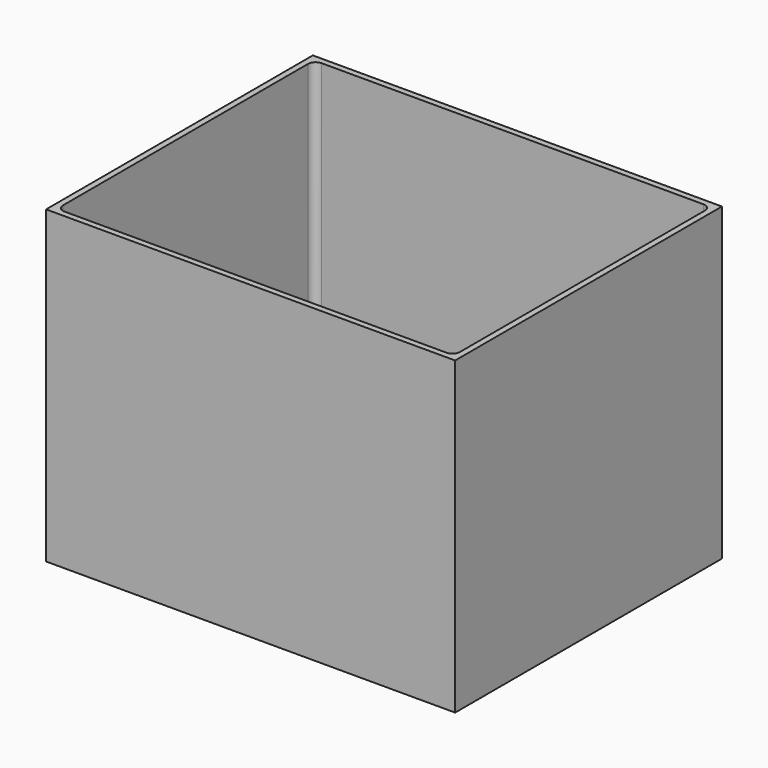
from build123d import *

# Parameters (mm, degrees)
F0_W     = 108.2
F0_H     = 88.2
F0_W_2   = 105
F0_H_2   = 85
F1_DEPTH = 80
F2_W     = 108.2
F2_H     = 88.2
F2_W_2   = 105
F2_H_2   = 85
F3_DEPTH = 2
F4_R     = 2


with BuildPart() as f1:
    # F0 (on Top) → F1 (new body)
    with BuildSketch(Plane.XY):
        with Locations((52.5, 42.5)):
            Rectangle(F0_W, F0_H)
        with Locations((52.5, 42.5)):
            Rectangle(F0_W_2, F0_H_2, mode=Mode.SUBTRACT)
    extrude(amount=F1_DEPTH)

    # F2 (on face) → F3 (join)
    with BuildSketch(Plane(origin=(0, 0, 0), x_dir=(1, 0, 0), z_dir=(0, 0, -1))):
        with Locations((52.5, -42.5)):
            Rectangle(F2_W, F2_H)
        with Locations((52.5, -42.5)):
            Rectangle(F2_W_2, F2_H_2, mode=Mode.SUBTRACT)
        with Locations((52.5, -42.5)):
            Rectangle(F2_W_2, F2_H_2)
    extrude(amount=F3_DEPTH)

    # F4
    f4_edges = [f1.edges().sort_by_distance(p)[0] for p in [
        (0, 85, 40),
        (105, 85, 40),
        (52.5, 0, 0),
        (0, 0, 40),
        (0, 42.5, 0),
        (52.5, 85, 0),
        (105, 42.5, 0),
        (105, 0, 40),
    ]]
    fillet(f4_edges, radius=F4_R)


solid = f1.part
